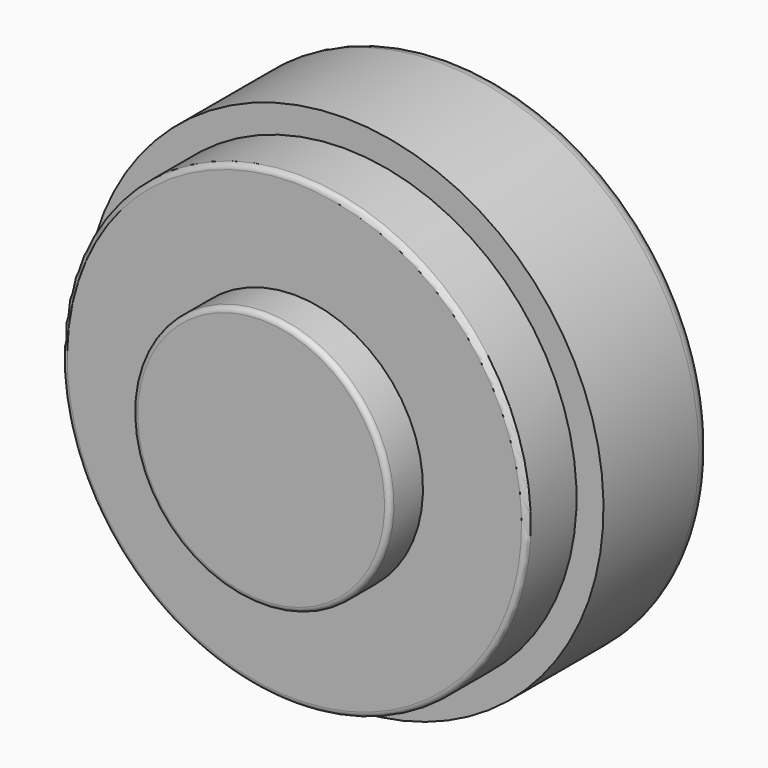
from build123d import *

# Parameters (mm, degrees)
F2_R = 3
F3_R = 1
F4_R = 1


with BuildPart() as f1:
    # F0 (on Right) → F1 (revolve)
    with BuildSketch(Plane.YZ):
        Polygon((-20.8168569952, 49.1500228971), (-20.8168569952, 24.3500228971), (25.1831430048, 24.3500228971), (25.1831430048, 74.3500228971), (-0.8168569952, 74.3500228971), (-0.8168569952, 69.1500228971), (-12.8168569952, 69.1500228971), (-12.8168569952, 49.1500228971), align=None)
    revolve(axis=Axis((0, 2.1831430048, 24.3500228971), (0, 1, 0)))

    # F2
    f2_edges = [f1.edges().sort_by_distance(p)[0] for p in [
        (0, 25.183143, -25.649977),
    ]]
    fillet(f2_edges, radius=F2_R)

    # F3
    f3_edges = [f1.edges().sort_by_distance(p)[0] for p in [
        (0, -12.816857, -20.449977),
    ]]
    fillet(f3_edges, radius=F3_R)

    # F4
    f4_edges = [f1.edges().sort_by_distance(p)[0] for p in [
        (0, -20.816857, -0.449977),
    ]]
    fillet(f4_edges, radius=F4_R)


solid = f1.part
